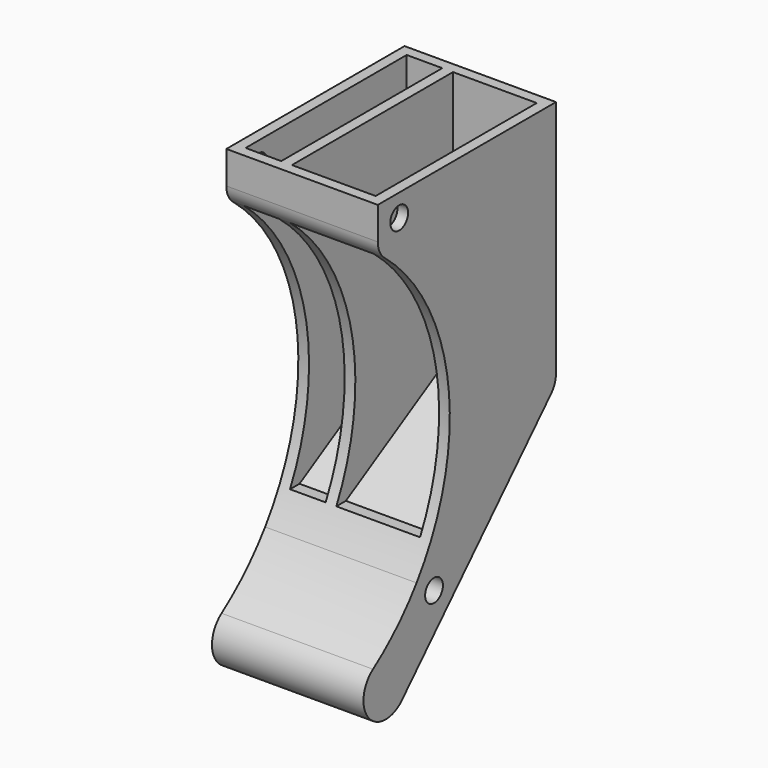
from build123d import *

# Parameters (mm, degrees)
F1_DEPTH  = 34
F2_R      = 5
F3_T      = -2.4
F4_W      = 2.4
F4_H      = 45.2
F6_R      = 2.5
F7_DEPTH  = 34
F9_DEPTH  = 34
F10_R     = 2.5
F11_DEPTH = 2.4
F12_R     = 2.5
F13_DEPTH = 2.401
F15_DEPTH = 18.8
F17_DEPTH = 8


with BuildPart() as f1:
    # F0 (on Right) → F1 (new body)
    with BuildSketch(Plane.YZ):
        with BuildLine():
            Line((10.8852769861, -79.1278925735), (50, -56.5449967121))
            Line((50, -56.5449967121), (50, 0))
            Line((50, 0), (0, 0))
            Line((0, 0), (0, -9.7502795041))
            ThreePointArc((0, -9.7502795041), (19.593285051, -42.2188639743), (10.8852769861, -79.1278925735))
        make_face()
    extrude(amount=F1_DEPTH)

    # F2
    f2_edges = [f1.edges().sort_by_distance(p)[0] for p in [
        (17, 50, -56.544997),
        (17, 0, -9.75028),
    ]]
    fillet(f2_edges, radius=F2_R)

    # F3
    f3_openings = [f1.faces().sort_by_distance(p)[0] for p in [
        (17, 25, 0),
    ]]
    offset(amount=F3_T, openings=f3_openings)

    # F4 (on face) → F5 (join, up to the next surface of F1)
    with BuildSketch(Plane.XY):
        with Locations((11.6, 25)):
            Rectangle(F4_W, F4_H)
    extrude(until=Until.NEXT, dir=(0, 0, -1))

    # F6 (on face) → F7 (join, through all)
    with BuildSketch(Plane(origin=(0, 0, 0), x_dir=(0, -1, 0), z_dir=(-1, 0, 0))):
        with BuildLine():
            Line((-48.6039717527, -57.1239902508), (-20.0967295817, -86.7682078582))
            ThreePointArc((-20.0967295817, -86.7682078582), (-11.9414879148, -87.2274799698), (-10.8852769861, -79.1278925735))
            Line((-10.8852769861, -79.1278925735), (-47.5, -57.9883723851))
            ThreePointArc((-47.5, -57.9883723851), (-48.0824352237, -57.5950706216), (-48.6039717527, -57.1239902508))
        make_face()
        with Locations((-15.7719634784, -82.6093139966)):
            Circle(F6_R, mode=Mode.SUBTRACT)
    extrude(amount=-F7_DEPTH)

    # F8 (on face) → F9 (join, through all)
    with BuildSketch(Plane(origin=(0, 0, 0), x_dir=(0, -1, 0), z_dir=(-1, 0, 0))):
        with BuildLine():
            ThreePointArc((-10.8852769861, -79.1278925735), (-11.9414879148, -87.2274799698), (-20.0967295817, -86.7682078582))
            Line((-20.0967295817, -86.7682078582), (-6.7233692079, -100.6749478608))
            ThreePointArc((-6.7233692079, -100.6749478608), (2.530528301, -100.3990424948), (1.3439837691, -91.2173838783))
            ThreePointArc((1.3439837691, -91.2173838783), (-5.2921636568, -85.7001846553), (-10.8852769861, -79.1278925735))
        make_face()
    extrude(amount=-F9_DEPTH)

    # F10 (on face) → F11 (cut, through all)
    with BuildSketch(Plane(origin=(0, 0, 0), x_dir=(0, -1, 0), z_dir=(-1, 0, 0))):
        with Locations((-6, -5)):
            Circle(F10_R)
    extrude(amount=-F11_DEPTH, mode=Mode.SUBTRACT)

    # F12 (on face) → F13 (cut, through all)
    with BuildSketch(Plane(origin=(31.6, 0, 0), x_dir=(0, -1, 0), z_dir=(-1, 0, 0))):
        with Locations((-6, -5)):
            Circle(F12_R)
    extrude(amount=-F13_DEPTH, mode=Mode.SUBTRACT)

    # F14 (on face) → F15 (cut, through all)
    with BuildSketch(Plane(origin=(31.6, 0, 0), x_dir=(0, -1, 0), z_dir=(-1, 0, 0))):
        with BuildLine():
            ThreePointArc((-3.3514492754, -9.3251818537), (-21.3226729199, -38.4785745519), (-17.5371837569, -72.5161311166))
            Line((-17.5371837569, -72.5161311166), (-14.867179982, -72.5161311166))
            ThreePointArc((-14.867179982, -72.5161311166), (-19.1029607916, -39.5626037012), (-1.8297101449, -11.1810670923))
            Line((-1.8297101449, -11.1810670923), (-3.3514492754, -9.3251818537))
        make_face()
    extrude(amount=F15_DEPTH, mode=Mode.SUBTRACT)

    # F16 (on face) → F17 (cut, through all)
    with BuildSketch(Plane.YZ.offset(2.4)):
        with BuildLine():
            Line((14.867179982, -72.5161311166), (17.5371837569, -72.5161311166))
            ThreePointArc((17.5371837569, -72.5161311166), (21.3226729199, -38.4785745519), (3.3514492754, -9.3251818537))
            Line((3.3514492754, -9.3251818537), (1.8297101449, -11.1810670923))
            ThreePointArc((1.8297101449, -11.1810670923), (19.1029607916, -39.5626037012), (14.867179982, -72.5161311166))
        make_face()
    extrude(amount=F17_DEPTH, mode=Mode.SUBTRACT)


solid = f1.part
